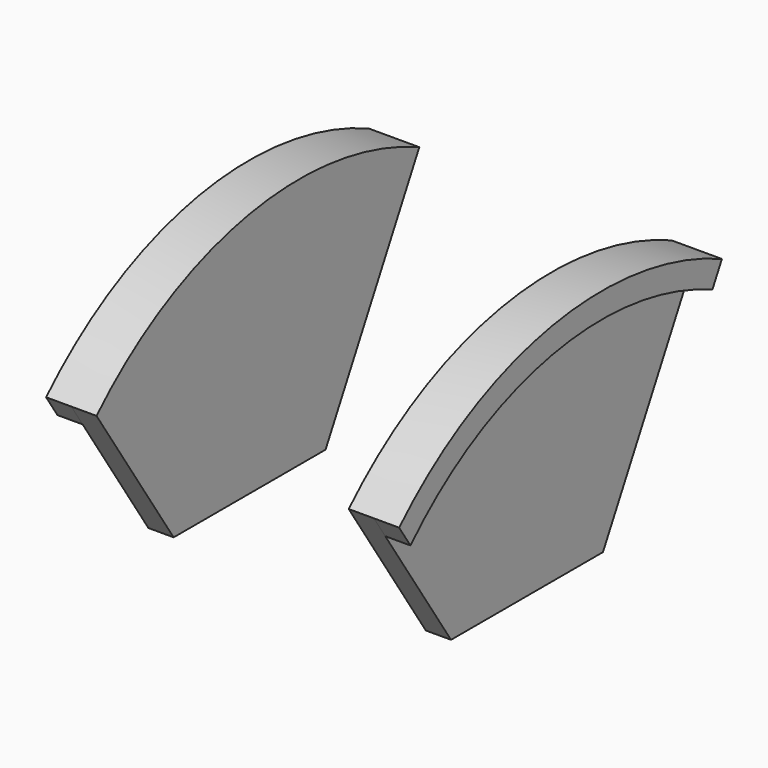
from build123d import *

# Parameters (mm, degrees)
PAD_DEPTH    = 2
PAD002_DEPTH = 2


with BuildPart() as part:
    # Sketch002 (on DatumPlane) → Pad (new body)
    with BuildSketch(Plane.YZ.offset(10)):
        with BuildLine():
            Line((-20, 44.449222), (-12.353723, 32.857666))
            Line((-12.353723, 32.857666), (2.706952, 32.857666))
            Line((2.706952, 32.857666), (12, 50.200987))
            ThreePointArc((12, 50.200987), (-4.905416, 52.362393), (-20, 44.449222))
        make_face()
    pad = extrude(amount=PAD_DEPTH)

    # Sketch009 (on Face6 of Pad) → Pad002 (join)
    with BuildSketch(Plane.YZ.offset(12)):
        with BuildLine():
            ThreePointArc((12, 50.200987), (-4.905416, 52.362393), (-20, 44.449222))
            Line((-20, 44.449222), (-18.875562, 42.744603))
            ThreePointArc((-18.875562, 42.744603), (-4.815104, 50.349098), (11.055401, 48.438111))
            Line((11.055401, 48.438111), (12, 50.200987))
        make_face()
    pad002 = extrude(amount=PAD002_DEPTH)

    # Mirrored001: Pad, Pad002 across YZ
    add(pad.mirror(Plane.YZ))
    add(pad002.mirror(Plane.YZ))


solid = part.part
